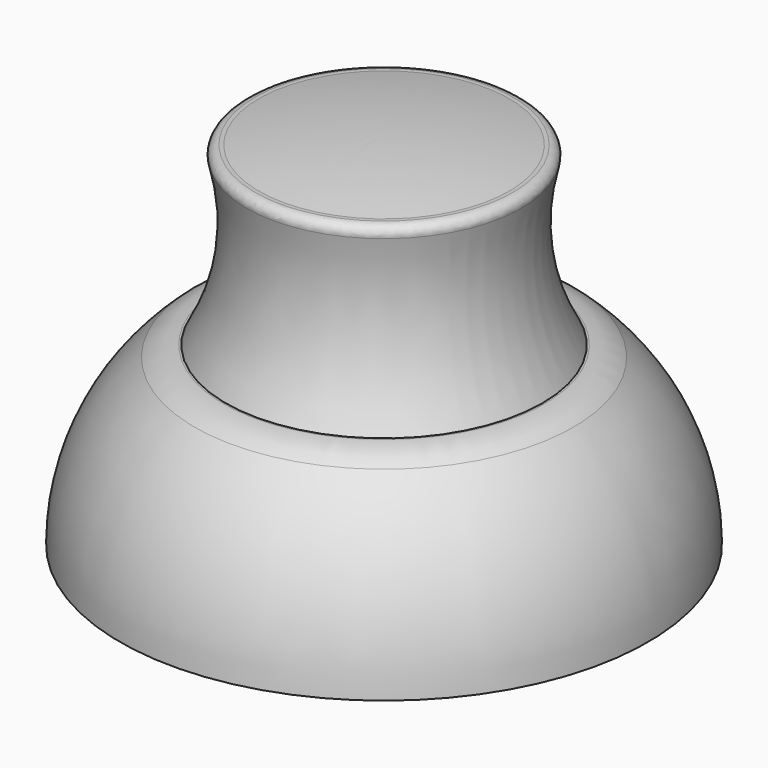
from build123d import *

# Parameters (mm, degrees)
F4_R = 1.27


with BuildPart() as f1:
    # F0 (on Front) → F1 (revolve)
    with BuildSketch(Plane.XZ):
        with BuildLine():
            Line((0, 25.4), (-23.150521, 25.4))
            ThreePointArc((-23.150521, 25.4), (-25.395585, 24.989881), (-27.350651, 23.8125))
            ThreePointArc((-27.350651, 23.8125), (-35.288151, 13.063151), (-38.1, 0))
            Line((-38.1, 0), (0, 0))
            Line((0, 0), (0, 25.4))
        make_face()
    revolve(axis=Axis((0, 0, 12.7), (0, 0, 1)))


with BuildPart() as f3:
    # F2 (on Right) → F3 (revolve)
    with BuildSketch(Plane.YZ):
        with BuildLine():
            Line((-22.86, 25.4), (0, 25.4))
            Line((0, 25.4), (0, 50.8))
            Line((0, 50.8), (-20.32, 50.8))
            ThreePointArc((-20.32, 50.8), (-18.924921, 37.833492), (-22.86, 25.4))
        make_face()
    revolve(axis=Axis((0, 0, 38.1), (0, 0, -1)))

    # F4
    f4_edges = [f3.edges().sort_by_distance(p)[0] for p in [
        (0, 20.32, 50.8),
    ]]
    fillet(f4_edges, radius=F4_R)


with BuildPart() as f6:
    # F5 (on Right) → F6 (revolve)
    with BuildSketch(Plane.YZ):
        with BuildLine():
            ThreePointArc((0, 52.404309), (-9.073513, 52.006505), (-18.075247, 50.8))
            Line((-18.075247, 50.8), (0, 50.8))
            Line((0, 50.8), (0, 52.404309))
        make_face()
    revolve(axis=Axis((0, 0, 51.602155), (0, 0, -1)))


solid = Compound([f1.part, f3.part, f6.part])
